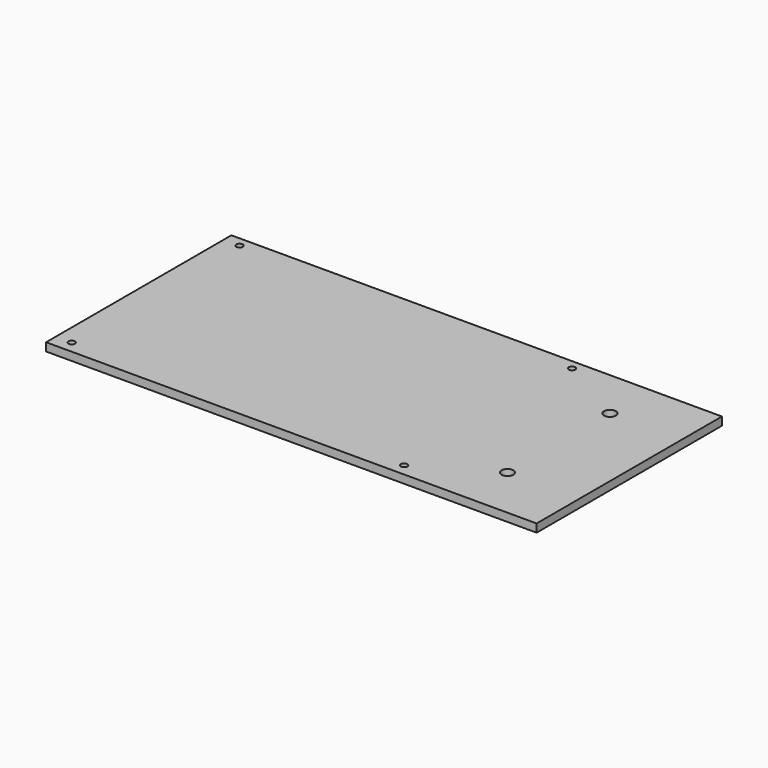
from build123d import *

# Parameters (mm, degrees)
F0_W     = 180
F0_H     = 85
F1_DEPTH = 3
F2_D     = 2.4
F3_D     = 4.4


with BuildPart() as f1:
    # F0 (on Top) → F1 (new body)
    with BuildSketch(Plane.XY):
        with Locations((23.1652522087, -0.4566903412)):
            Rectangle(F0_W, F0_H)
    extrude(amount=F1_DEPTH)

    # F2 (through all)
    with Locations(Plane(origin=(0, 0, 0), x_dir=(1, 0, 0), z_dir=(0, 0, -1))):
        with Locations((-61, 38.5), (-61, -38.5), (61, 38.5), (61, -38.5)):
            Hole(F2_D / 2)

    # F3 (through all)
    with Locations(Plane(origin=(0, 0, 0), x_dir=(1, 0, 0), z_dir=(0, 0, -1))):
        with Locations((86.9170799851, -23.5), (86.9170799851, 23.5)):
            Hole(F3_D / 2)


solid = f1.part
